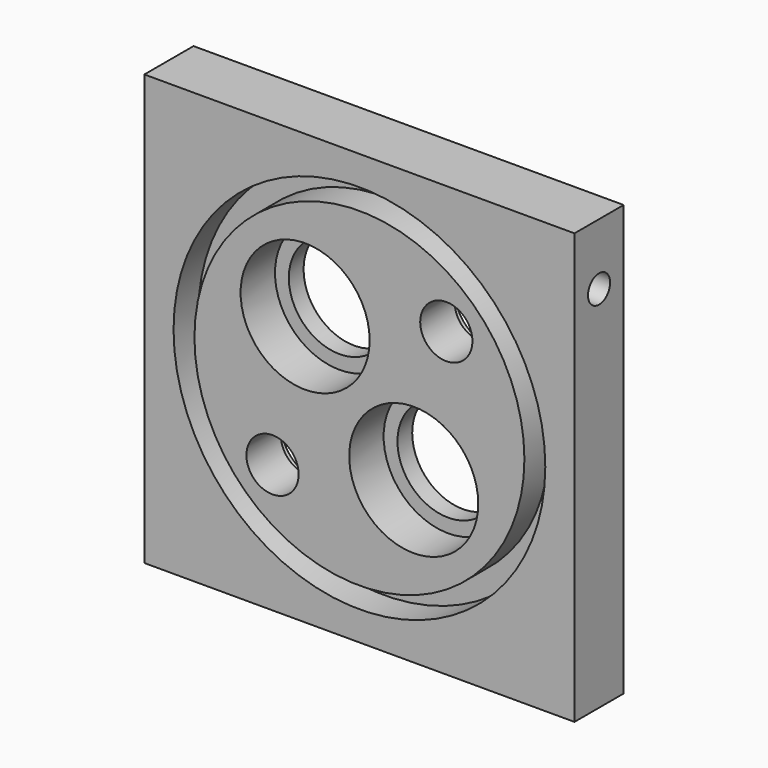
from build123d import *

# Parameters (mm, degrees)
SKETCH_W            = 70
SKETCH_H            = 70
PAD_DEPTH           = 10
SKETCH001_R         = 30.25
SKETCH001_R_2       = 26.85
POCKET_DEPTH        = 5
SKETCH003_R         = 2.25
HOLE_DEPTH          = 10
HOLE_TIPS_R         = 2.25
SKETCH004_R         = 2.25
HOLE001_DEPTH       = 10
HOLE001_TIPS_R      = 2.25
HOLE003_D           = 16.5
HOLE003_CBORE_D     = 21
HOLE003_CBORE_DEPTH = 7
HOLE004_D           = 8.5
HOLE004_CBORE_D     = 13.5
HOLE004_CBORE_DEPTH = 3


with BuildPart() as part:
    # Sketch → Pad (new body)
    with BuildSketch(Plane.XZ):
        Rectangle(SKETCH_W, SKETCH_H)
    extrude(amount=PAD_DEPTH)

    # Sketch001 (on Face6 of Pad) → Pocket (cut)
    with BuildSketch(Plane.XZ.offset(10)):
        Circle(SKETCH001_R)
        Circle(SKETCH001_R_2, mode=Mode.SUBTRACT)
    extrude(amount=-POCKET_DEPTH, mode=Mode.SUBTRACT)

    # Sketch003 (on Face3 of Pocket) → Hole (cut)
    with BuildSketch(Plane(origin=(35, 0, 0), x_dir=(0, 0, 1), z_dir=(1, 0, 0))):
        with Locations((25, 5)):
            Circle(SKETCH003_R)
    extrude(amount=-HOLE_DEPTH, mode=Mode.SUBTRACT)

    # Hole tips → Hole tip 1 section 0
    with BuildSketch(Plane(origin=(25, 0, 0), x_dir=(0, 0, 1), z_dir=(1, 0, 0)), mode=Mode.PRIVATE) as hole_tip_1_s0:
        with Locations((25, 5)):
            Circle(HOLE_TIPS_R)
    loft([hole_tip_1_s0.sketch, Vertex(23.648064, -5, 25)], mode=Mode.SUBTRACT)

    # Sketch004 (on Face6 of Hole) → Hole001 (cut)
    with BuildSketch(Plane(origin=(0, 0, -35), x_dir=(1, 0, 0), z_dir=(0, 0, -1))):
        with Locations((25, 5)):
            Circle(SKETCH004_R)
    extrude(amount=-HOLE001_DEPTH, mode=Mode.SUBTRACT)

    # Hole001 tips → Hole001 tip 1 section 0
    with BuildSketch(Plane(origin=(0, 0, -25), x_dir=(1, 0, 0), z_dir=(0, 0, -1)), mode=Mode.PRIVATE) as hole001_tip_1_s0:
        with Locations((25, 5)):
            Circle(HOLE001_TIPS_R)
    loft([hole001_tip_1_s0.sketch, Vertex(25, -5, -23.648064)], mode=Mode.SUBTRACT)

    # Hole003 (through all)
    with Locations(Plane.XZ.offset(10)):
        with Locations((-8.838835, 8.838835), (8.838835, -8.838835)):
            CounterBoreHole(HOLE003_D / 2, HOLE003_CBORE_D / 2, HOLE003_CBORE_DEPTH)

    # Hole004 (through all)
    with Locations(Plane(origin=(0, 0, 0), x_dir=(1, 0, 0), z_dir=(0, 1, 0))):
        with Locations((-14.142136, 14.142136), (14.142136, -14.142136)):
            CounterBoreHole(HOLE004_D / 2, HOLE004_CBORE_D / 2, HOLE004_CBORE_DEPTH)


solid = part.part
